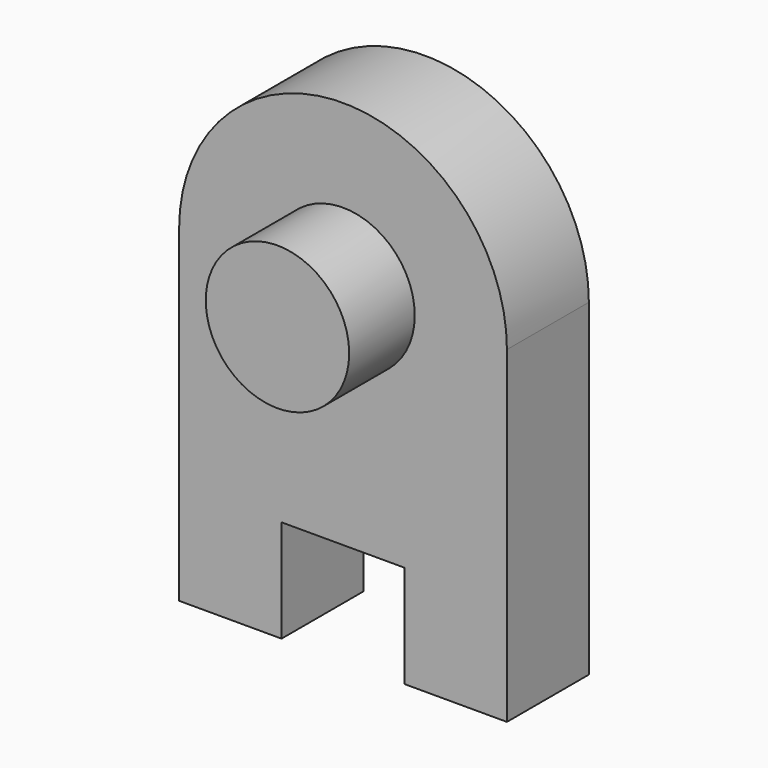
from build123d import *

# Parameters (mm, degrees)
F0_R     = 17.5
F1_DEPTH = 45
F2_DEPTH = 25


with BuildPart() as f1:
    # F0 (on Front) → F1 (new body)
    with BuildSketch(Plane.XZ):
        Circle(F0_R)
    extrude(amount=F1_DEPTH)

    # F0 (on Front) → F2 (join)
    with BuildSketch(Plane.XZ):
        with BuildLine():
            Line((40, -80), (40, 0))
            ThreePointArc((40, 0), (0, 40), (-40, 0))
            Line((-40, 0), (-40, -80))
            Line((-40, -80), (-15, -80))
            Line((-15, -80), (-15, -55))
            Line((-15, -55), (15, -55))
            Line((15, -55), (15, -80))
            Line((15, -80), (40, -80))
        make_face()
        Circle(F0_R, mode=Mode.SUBTRACT)
    extrude(amount=F2_DEPTH)


solid = f1.part
